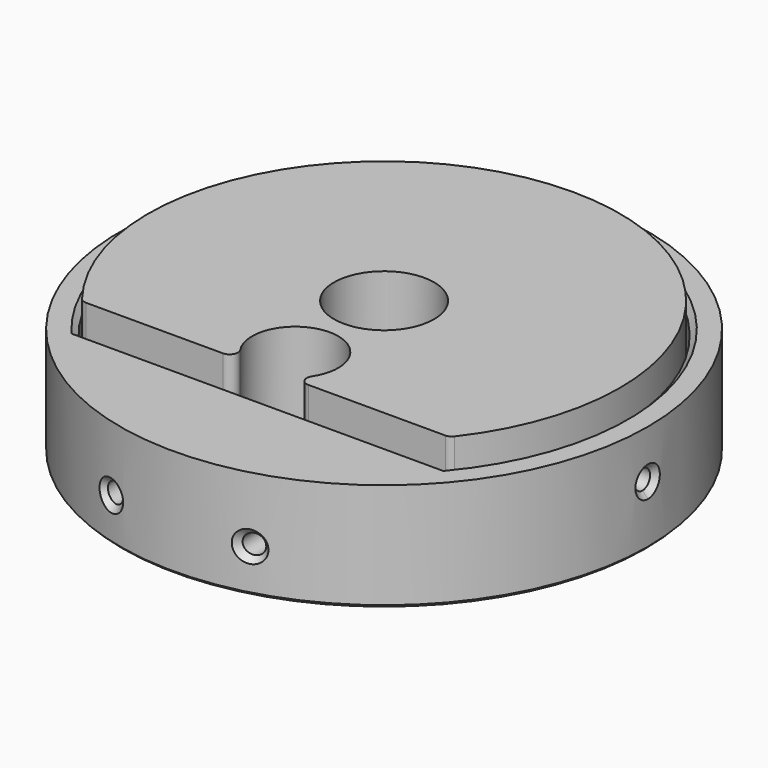
from build123d import *

# Parameters (mm, degrees)
SKETCH007_R     = 9
PAD005_DEPTH    = 16
FILLET_R        = 1.5
SKETCH_R        = 47.5
PAD_DEPTH       = 19.5
POCKET_DEPTH    = 17.5
CHAMFER_SIZE    = 1
CHAMFER001_SIZE = 0.5
SKETCH010_R     = 1.75
POCKET001_DEPTH = 150
CHAMFER002_SIZE = 1
SKETCH011_R     = 8.5
PAD006_DEPTH    = 8
CHAMFER003_SIZE = 1
SKETCH012_R     = 1.75
POCKET002_DEPTH = 30
CHAMFER004_SIZE = 1
SKETCH013_R     = 5
POCKET003_DEPTH = 5
CHAMFER005_SIZE = 1


with BuildPart() as color_sensor_layer:
    # Sketch007 → Pad005 (new body)
    with BuildSketch(Plane.XY):
        with BuildLine():
            Line((-33.051802, -26.637959), (-4, -26.637959))
            ThreePointArc((4, -26.637959), (0, -12.25), (-4, -26.637959))
            Line((33.051802, -26.637959), (4, -26.637959))
            ThreePointArc((33.051802, -26.637959), (0, 42.45), (-33.051802, -26.637959))
        make_face()
        Circle(SKETCH007_R, mode=Mode.SUBTRACT)
    extrude(amount=PAD005_DEPTH)

    # Fillet
    fillet_edges = [color_sensor_layer.edges().sort_by_distance(p)[0] for p in [
        (-4, -26.637959, 8),
        (4, -26.637959, 8),
        (-33.051802, -26.637959, 8),
        (33.051802, -26.637959, 8),
    ]]
    fillet(fillet_edges, radius=FILLET_R)


with BuildPart() as color_sensor_layer_1:
    # Body005 placement: moved
    add(color_sensor_layer.part.moved(Location((0, 0, 8))))


with BuildPart() as colour_sensor_layer_jig:
    # Sketch → Pad (new body)
    with BuildSketch(Plane.XY):
        Circle(SKETCH_R)
    extrude(amount=PAD_DEPTH)

    # Sketch009 (on Face3 of Pad) → Pocket (cut)
    with BuildSketch(Plane.XY.offset(19.5)):
        with BuildLine():
            ThreePointArc((32.991704, -27.5), (0, 42.95), (-32.991704, -27.5))
            Line((-32.991704, -27.5), (32.991704, -27.5))
        make_face()
    extrude(amount=-POCKET_DEPTH, mode=Mode.SUBTRACT)

    # Chamfer
    chamfer_edges = [colour_sensor_layer_jig.edges().sort_by_distance(p)[0] for p in [
        (0, -27.5, 19.5),
        (0, 42.95, 19.5),
    ]]
    chamfer(chamfer_edges, length=CHAMFER_SIZE)

    # Chamfer001
    chamfer001_edges = [colour_sensor_layer_jig.edges().sort_by_distance(p)[0] for p in [
        (-47.5, 0, 0),
    ]]
    chamfer(chamfer001_edges, length=CHAMFER001_SIZE)

    # Sketch010 (on DatumPlane) → Pocket001 (cut)
    with BuildSketch(Plane(origin=(50, 0, 19.5), x_dir=(0, 0, -1), z_dir=(1, 0, 0))):
        with Locations((8.7, 0)):
            Circle(SKETCH010_R)
    extrude(amount=-POCKET001_DEPTH, mode=Mode.SUBTRACT)

    # Chamfer002
    chamfer002_edges = [colour_sensor_layer_jig.edges().sort_by_distance(p)[0] for p in [
        (47.467752, 1.75, 10.8),
        (-47.5, 0, 12.55),
    ]]
    chamfer(chamfer002_edges, length=CHAMFER002_SIZE)

    # Sketch011 (on Face14 of Chamfer002) → Pad006 (join)
    with BuildSketch(Plane.XY.offset(2)):
        Circle(SKETCH011_R)
    extrude(amount=PAD006_DEPTH)

    # Chamfer003
    chamfer003_edges = [colour_sensor_layer_jig.edges().sort_by_distance(p)[0] for p in [
        (-8.5, 0, 10),
    ]]
    chamfer(chamfer003_edges, length=CHAMFER003_SIZE)

    # Sketch012 (on DatumPlane) → Pocket002 (cut)
    with BuildSketch(Plane(origin=(0, -50, 19.5), x_dir=(1, 0, 0), z_dir=(0, -1, 0))):
        with Locations((12.5, -11.75)):
            Circle(SKETCH012_R)
        with Locations((-12.5, -11.75)):
            Circle(SKETCH012_R)
    extrude(amount=-POCKET002_DEPTH, mode=Mode.SUBTRACT)

    # Chamfer004
    chamfer004_edges = [colour_sensor_layer_jig.edges().sort_by_distance(p)[0] for p in [
        (10.75, -46.267564, 7.75),
        (-14.25, -45.312112, 7.75),
    ]]
    chamfer(chamfer004_edges, length=CHAMFER004_SIZE)

    # Sketch013 (on Face7 of Chamfer004) → Pocket003 (cut)
    with BuildSketch(Plane.XY.offset(2)):
        with Locations((0, 36.3)):
            Circle(SKETCH013_R)
    extrude(amount=-POCKET003_DEPTH, mode=Mode.SUBTRACT)

    # Chamfer005
    chamfer005_edges = [colour_sensor_layer_jig.edges().sort_by_distance(p)[0] for p in [
        (-5, 36.3, 0),
    ]]
    chamfer(chamfer005_edges, length=CHAMFER005_SIZE)


solid = Compound([color_sensor_layer_1.part, colour_sensor_layer_jig.part])
